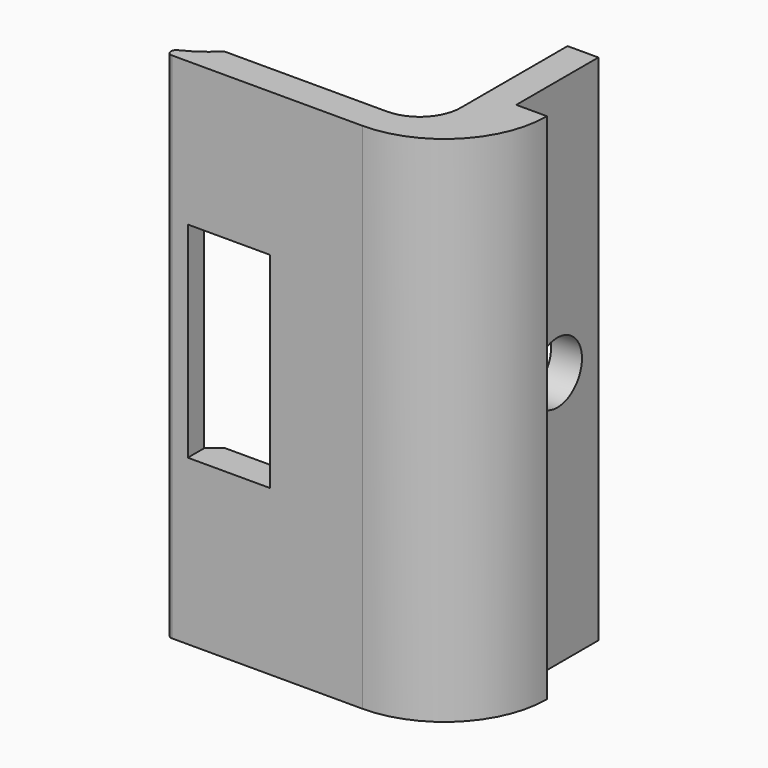
from build123d import *

# Parameters (mm, degrees)
F0_W     = 1.5
F0_H     = 5
F1_DEPTH = 25
F2_R     = 1.5
F3_DEPTH = 25
F4_W     = 4
F4_H     = 10
F5_DEPTH = 25
F6_R     = 0.25


with BuildPart() as f1:
    # F0 (on Top) → F1 (new body)
    with BuildSketch(Plane.XY):
        with BuildLine():
            ThreePointArc((3.570714, 1.5), (1.936492, 0.390228), (0, 0))
            Line((0, 0), (11.5, 0))
            ThreePointArc((11.5, 0), (15.035534, 1.464466), (16.5, 5))
            Line((16.5, 5), (15, 5))
            Line((15, 5), (13.5, 5))
            Line((13.5, 5), (13.5, 3.5))
            ThreePointArc((13.5, 3.5), (12.914214, 2.085786), (11.5, 1.5))
            Line((11.5, 1.5), (10, 1.5))
            Line((10, 1.5), (3.570714, 1.5))
        make_face()
        with Locations((14.25, 7.5)):
            Rectangle(F0_W, F0_H)
    extrude(amount=F1_DEPTH)

    # F2 (on face) → F3 (cut)
    with BuildSketch(Plane.YZ.offset(15)):
        with Locations((7.5, 12.5)):
            Circle(F2_R)
    extrude(amount=-F3_DEPTH, mode=Mode.SUBTRACT)

    # F4 (on face) → F5 (cut)
    with BuildSketch(Plane.XZ):
        with Locations((5, 13)):
            Rectangle(F4_W, F4_H)
    extrude(amount=-F5_DEPTH, mode=Mode.SUBTRACT)

    # F6
    f6_edges = [f1.edges().sort_by_distance(p)[0] for p in [
        (0, 0, 12.5),
    ]]
    fillet(f6_edges, radius=F6_R)


solid = f1.part
